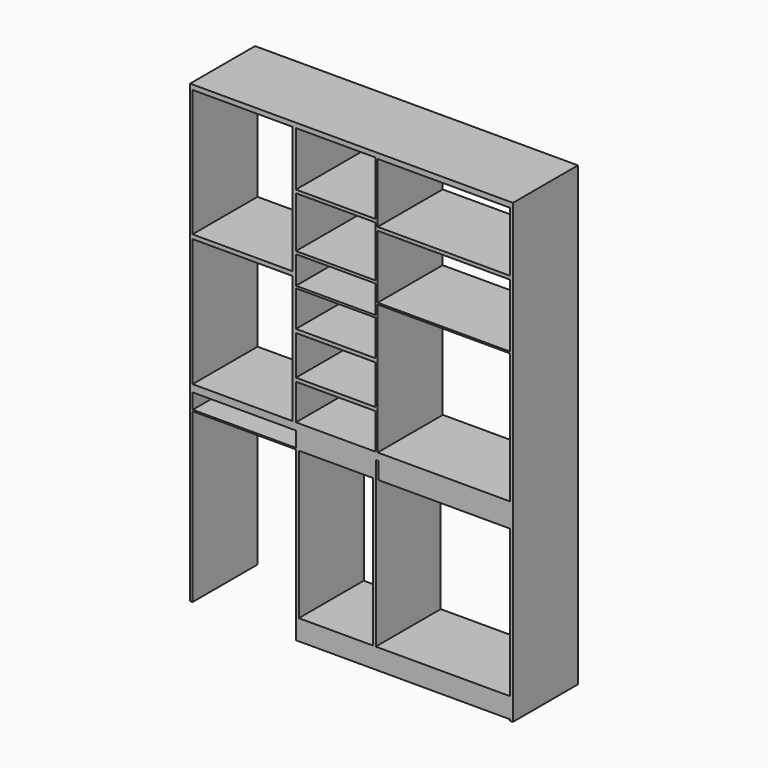
from build123d import *

# Parameters (mm, degrees)
F0_W      = 337.0173126459
F0_H      = 86.0028490424
F1_DEPTH  = 7.62
F2_W      = 3.4302696586
F2_H      = 86.0028490424
F3_DEPTH  = 279.4
F4_W      = 86.0028490424
F4_H      = 4.4084019136
F5_DEPTH  = 108.712
F6_W      = 43.0014245212
F6_H      = 4.1845664382
F7_DEPTH  = 108.712
F8_W      = 86.0028490424
F8_H      = 5.0613901806
F9_DEPTH  = 108.712
F10_W     = 2.5949749823
F10_H     = 86.0028490424
F11_DEPTH = 282.702
F12_W     = 84.5208009705
F12_H     = 86.0028490424
F13_DEPTH = 25.4
F14_W     = 2.429779619
F14_H     = 86.0028490424
F15_DEPTH = 279.4
F16_W     = 86.0028490424
F16_H     = 5.0492010307
F17_DEPTH = 84.836
F18_W     = 86.0028490424
F18_H     = 2.9006898403
F19_DEPTH = 84.836
F20_W     = 86.0028490424
F20_H     = 3.3634305
F21_DEPTH = 85.09
F22_W     = 86.0028490424
F22_H     = 2.3629367352
F23_DEPTH = 85.09
F24_W     = 86.0028490424
F24_H     = 3.8478970528
F25_DEPTH = 85.09
F26_W     = 86.0028490424
F26_H     = 3.7884193933
F27_DEPTH = 85.09
F29_W     = 137.556899339
F29_H     = 86.3062888384
F30_DEPTH = 25.4
F31_W     = 86.0028490424
F31_H     = 1.7304397297
F32_DEPTH = 143.256
F33_W     = 86.0028490424
F33_H     = 5.6310913754
F34_DEPTH = 143.256
F35_W     = 2.9041429413
F35_H     = 86.0028490424
F36_DEPTH = 300.5836
F37_W     = 86.0028490424
F37_H     = 3.6729436779
F38_DEPTH = 141.732
F39_W     = 109.4675436616
F39_H     = 2.797678113
F40_DEPTH = 17.78
F41_W     = 2.5949749823
F41_H     = 2.8018429875
F42_DEPTH = 17.0688
F43_DEPTH = 83.1596
F44_W     = 109.4675436616
F44_H     = 1.4792491037
F45_DEPTH = 83.058
F46_DEPTH = 177.8
F47_W     = 2.9938668013
F47_H     = 86.0028490424
F48_DEPTH = 177.8
F49_W     = 2.7467114851
F49_H     = 86.0028490424
F50_DEPTH = 177.8
F51_DEPTH = 17.78
F52_W     = 2.9041429413
F52_H     = 86.0028490424
F53_DEPTH = 177.8
F54_W     = 86.0028490424
F54_H     = 21.5720179844
F55_DEPTH = 226.06


with BuildPart() as f1:
    # F0 (on Top) → F1 (new body)
    with BuildSketch(Plane.XY):
        with Locations((-12.588955462, 43.0014245212)):
            Rectangle(F0_W, F0_H)
    extrude(amount=F1_DEPTH)

    # F2 (on face) → F3 (join)
    with BuildSketch(Plane.XY.offset(7.62)):
        with Locations((-73.3452029526, 43.0014245212)):
            Rectangle(F2_W, F2_H)
    extrude(amount=F3_DEPTH)

    # F4 (on face) → F5 (join)
    with BuildSketch(Plane(origin=(-75.0603377819, 0, 0), x_dir=(0, -1, 0), z_dir=(-1, 0, 0))):
        with Locations((-43.0014245212, 145.1157990432)):
            Rectangle(F4_W, F4_H)
    extrude(amount=F5_DEPTH)

    # F6 (on face) → F7 (join)
    with BuildSketch(Plane(origin=(-75.0603377819, 0, 0), x_dir=(0, -1, 0), z_dir=(-1, 0, 0))):
        with Locations((-64.5021367818, 120.2528215945)):
            Rectangle(F6_W, F6_H)
    extrude(amount=F7_DEPTH)

    # F8 (on face) → F9 (join)
    with BuildSketch(Plane(origin=(-75.0603377819, 0, 0), x_dir=(0, -1, 0), z_dir=(-1, 0, 0))):
        with Locations((-43.0014245212, 284.4893049097)):
            Rectangle(F8_W, F8_H)
    extrude(amount=F9_DEPTH)

    # F10 (on face) → F11 (join)
    with BuildSketch(Plane(origin=(0, 0, 281.9586098194), x_dir=(1, 0, 0), z_dir=(0, 0, -1))):
        with Locations((-182.4748502908, -43.0014245212)):
            Rectangle(F10_W, F10_H)
    extrude(amount=F11_DEPTH)

    # F12 (on face) → F13 (join)
    with BuildSketch(Plane.XY.offset(7.62)):
        with Locations((-29.3696676381, 43.0014245212)):
            Rectangle(F12_W, F12_H)
    extrude(amount=-F13_DEPTH)

    # F14 (on face) → F15 (join)
    with BuildSketch(Plane.XY.offset(7.62)):
        with Locations((13.6984353885, 43.0014245212)):
            Rectangle(F14_W, F14_H)
    extrude(amount=F15_DEPTH)

    # F16 (on face) → F17 (join)
    with BuildSketch(Plane.YZ.offset(-71.6300681233)):
        with Locations((43.0014245212, 284.4953994846)):
            Rectangle(F16_W, F16_H)
    extrude(amount=F17_DEPTH)

    # F18 (on face) → F19 (join)
    with BuildSketch(Plane.YZ.offset(-71.6300681233)):
        with Locations((43.0014245212, 165.8845096827)):
            Rectangle(F18_W, F18_H)
    extrude(amount=F19_DEPTH)

    # F20 (on face) → F21 (join)
    with BuildSketch(Plane.YZ.offset(-71.6300681233)):
        with Locations((43.0014245212, 222.971111536)):
            Rectangle(F20_W, F20_H)
    extrude(amount=F21_DEPTH)

    # F22 (on face) → F23 (join)
    with BuildSketch(Plane.YZ.offset(-71.6300681233)):
        with Locations((43.0014245212, 133.7857097387)):
            Rectangle(F22_W, F22_H)
    extrude(amount=F23_DEPTH)

    # F24 (on face) → F25 (join)
    with BuildSketch(Plane.YZ.offset(-71.6300681233)):
        with Locations((43.0014245212, 92.8397625685)):
            Rectangle(F24_W, F24_H)
    extrude(amount=F25_DEPTH)

    # F26 (on face) → F27 (join)
    with BuildSketch(Plane.YZ.offset(-71.6300681233)):
        with Locations((43.0014245212, 47.3736973244)):
            Rectangle(F26_W, F26_H)
    extrude(amount=F27_DEPTH)

    # F29 (on face) → F30 (join)
    with BuildSketch(Plane.XY.offset(7.62)):
        with Locations((84.4397153705, 43.1531444192)):
            Rectangle(F29_W, F29_H)
    extrude(amount=-F30_DEPTH)

    # F31 (on face) → F32 (join)
    with BuildSketch(Plane.YZ.offset(14.913325198)):
        with Locations((43.0014245212, 146.4547801352)):
            Rectangle(F31_W, F31_H)
    extrude(amount=F32_DEPTH)

    # F33 (on face) → F34 (join)
    with BuildSketch(Plane.YZ.offset(14.913325198)):
        with Locations((43.0014245212, 284.2044543123)):
            Rectangle(F33_W, F33_H)
    extrude(amount=F34_DEPTH)

    # F35 (on face) → F36 (join)
    with BuildSketch(Plane(origin=(0, 0, 281.3889086246), x_dir=(1, 0, 0), z_dir=(0, 0, -1))):
        with Locations((156.7172537273, -43.0014245212)):
            Rectangle(F35_W, F35_H)
    extrude(amount=F36_DEPTH)

    # F37 (on face) → F38 (join)
    with BuildSketch(Plane.YZ.offset(14.913325198)):
        with Locations((43.0014245212, 216.1909261513)):
            Rectangle(F37_W, F37_H)
    extrude(amount=F38_DEPTH)

    # F39 (on face) → F40 (join)
    with BuildSketch(Plane(origin=(0, 0, 0), x_dir=(1, 0, 0), z_dir=(0, 0, -1))):
        with Locations((-126.3638399541, -84.6040099859)):
            Rectangle(F39_W, F39_H)
    extrude(amount=F40_DEPTH)

    # F41 (on face) → F42 (join)
    with BuildSketch(Plane(origin=(0, 0, -0.7433901806), x_dir=(1, 0, 0), z_dir=(0, 0, -1))):
        with Locations((-182.4748502908, -84.6019275486)):
            Rectangle(F41_W, F41_H)
    extrude(amount=F42_DEPTH)

    # F43 (add): a face of the model
    f43_faces = [f1.faces().sort_by_distance(p)[0] for p in [
        (-182.4748502908, 83.2010060549, -9.2777901806),
    ]]
    extrude(f43_faces, amount=F43_DEPTH)

    # F44 (on face) → F45 (join)
    with BuildSketch(Plane.XZ.offset(-83.2051709294)):
        with Locations((-126.3638399541, -17.0403754482)):
            Rectangle(F44_W, F44_H)
    extrude(amount=F45_DEPTH)

    # F46 (add): a face of the model
    f46_faces = [f1.faces().sort_by_distance(p)[0] for p in [
        (-182.4748502908, 43.0221275486, -17.8121901806),
    ]]
    extrude(f46_faces, amount=F46_DEPTH)

    # F47 (on face) → F48 (join)
    with BuildSketch(Plane(origin=(0, 0, -17.78), x_dir=(1, 0, 0), z_dir=(0, 0, -1))):
        with Locations((-70.1331347227, -43.0014245212)):
            Rectangle(F47_W, F47_H)
    extrude(amount=F48_DEPTH)

    # F49 (on face) → F50 (join)
    with BuildSketch(Plane(origin=(0, 0, -17.78), x_dir=(1, 0, 0), z_dir=(0, 0, -1))):
        with Locations((11.5173771046, -43.0014245212)):
            Rectangle(F49_W, F49_H)
    extrude(amount=F50_DEPTH)

    # F51 (add): a face of the model
    f51_faces = [f1.faces().sort_by_distance(p)[0] for p in [
        (154.2416736484, 43.0014245212, 0),
    ]]
    extrude(f51_faces, amount=F51_DEPTH)

    # F52 (on face) → F53 (join)
    with BuildSketch(Plane(origin=(0, 0, -19.1946913754), x_dir=(1, 0, 0), z_dir=(0, 0, -1))):
        with Locations((156.7172537273, -43.0014245212)):
            Rectangle(F52_W, F52_H)
    extrude(amount=F53_DEPTH)

    # F54 (on face) → F55 (join)
    with BuildSketch(Plane.YZ.offset(-68.6362013221)):
        with Locations((43.0014245212, -184.7939910078)):
            Rectangle(F54_W, F54_H)
    extrude(amount=F55_DEPTH)


solid = f1.part
